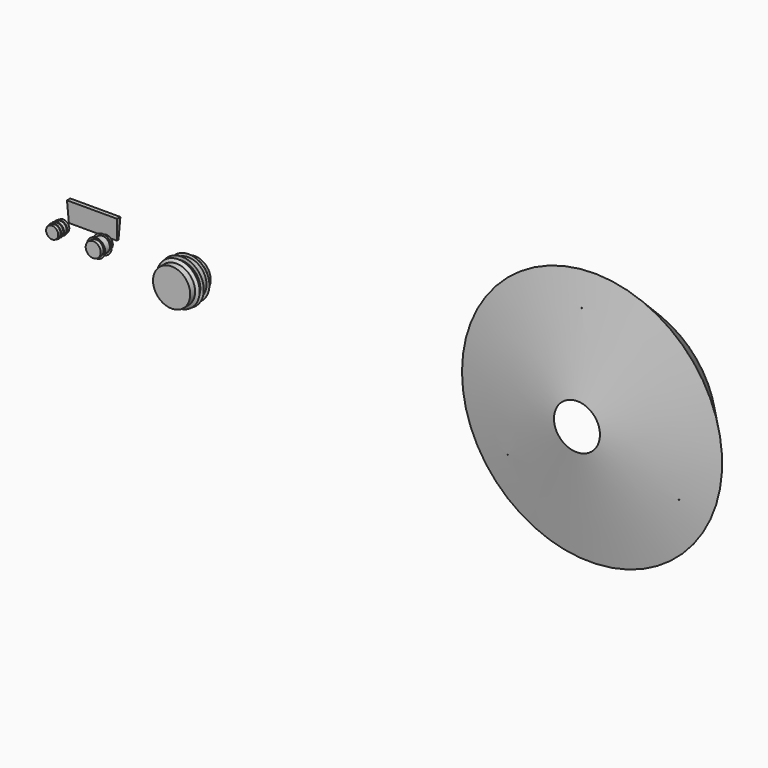
from build123d import *

# Parameters (mm, degrees)
F3_W     = 433.0624938011
F3_H     = 18.2984173298
F4_DEPTH = 180.7638555765
F4_TAPER = -3
F8_D     = 6.35


with BuildPart() as f9:
    # F0 (on Top) → F9 (revolve)
    with BuildSketch(Plane.XY):
        Polygon((0, -63.6404901743), (0, 61.3229125738), (-54.3893426657, 61.85798347), (-54.3893426657, 37.779789418), (-61.0047653317, 30.6292958558), (-54.8563152552, 30.6292958558), (-54.8563152552, 0), (-61.3939091563, -6.2906071544), (-54.7784864902, -6.2906071544), (-54.7784864902, -31.8280830979), (-61.0825940967, -37.2760817409), (-54.7784864902, -37.2760817409), (-54.7784864902, -63.6404901743), align=None)
    revolve(axis=Axis((0, -1.1587888002, 0), (0, -1, 0)))


with BuildPart() as f10:
    # F1 (on Top) → F10 (revolve)
    with BuildSketch(Plane.XY):
        Polygon((388.2258534431, -86.9315266609), (388.2258534431, 65.3391927481), (330.0427794456, 61.1662268639), (323.2297301292, 33.914193511), (304.8346042633, 17.5629779696), (321.4583992958, 17.5629779696), (321.4583992958, -40.1772707701), (306.3334822655, -54.3142557144), (321.3220834732, -54.3142557144), (321.3220834732, -86.9315266609), align=None)
    revolve(axis=Axis((388.9071345329, -6.8275928497, 0), (0, -1, 0)))


with BuildPart() as f11:
    # F2 (on Top) → F11 (revolve)
    with BuildSketch(Plane.XY):
        Polygon((1180.6406974792, 71.6879218817), (1038.0868911743, 71.6879218817), (1027.8182029724, 36.7667675018), (992.911125836, 0), (1016.6434049606, -3.0621886253), (1010.6030702591, -49.875408411), (981.6089868546, -77.6235461235), (1012.4151706696, -77.6235461235), (1012.4151706696, -118.3963418007), (986.4413738251, -118.3963418007), (1012.7171278, -136.7063522339), (1012.7171278, -191.8250918388), (1180.6406974792, -191.8250918388), align=None)
    revolve(axis=Axis((1180.6406974792, -60.0685849786, 0), (0, -1, 0)))


with BuildPart() as f4:
    # F3 (on Top) → F4 (new body)
    with BuildSketch(Plane.XY):
        with Locations((216.6205346584, 134.0056806803)):
            Rectangle(F3_W, F3_H)
    extrude(amount=F4_DEPTH, taper=F4_TAPER)


with BuildPart() as f6:
    # F5 (on Top) → F6 (revolve)
    with BuildSketch(Plane.XY):
        Polygon((3581.9473266602, 82.5415253639), (4534.8318475019, -70.8818529224), (3915.9905910492, 474.7893810272), align=None)
    revolve(axis=Axis((4740.8739170644, -168.0824241864, 0), (-0.0234552686, 0.9997248873, 0)))

    # F8 (through all)
    with Locations(Plane.XZ):
        with Locations((4683.3190917969, 875.2467632294), (4026.9852477939, -496.3121907128), (5542.9571466344, -378.9345342642)):
            Hole(F8_D / 2)


solid = Compound([f9.part, f10.part, f11.part, f4.part, f6.part])
